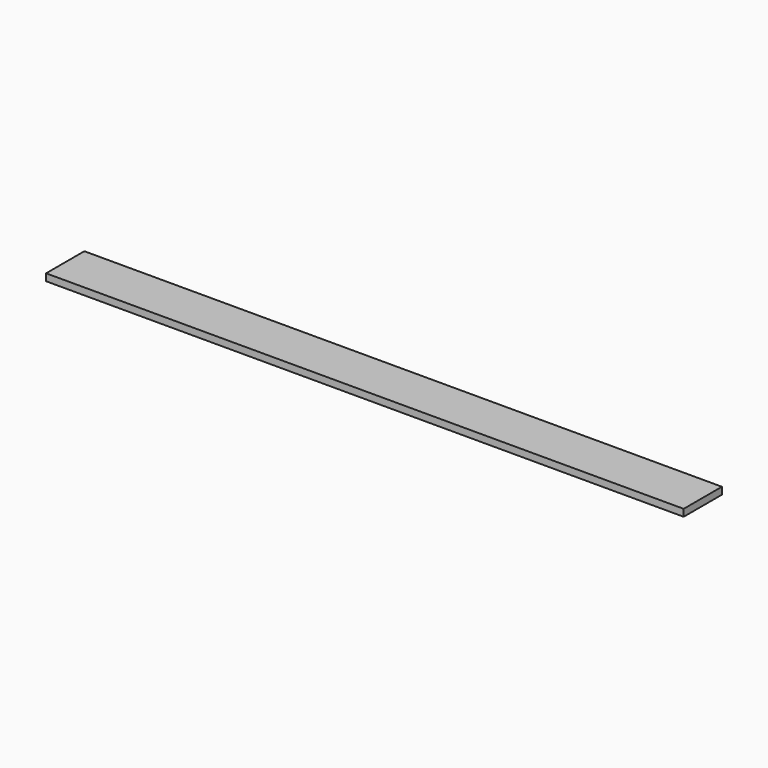
from build123d import *

# Parameters (mm, degrees)
F0_W     = 150
F0_H     = 2000
F1_DEPTH = 22
F2_ANGLE = 90


with BuildPart() as f1:
    # F0 (on Right) → F1 (new body)
    with BuildSketch(Plane.YZ):
        Rectangle(F0_W, F0_H)
    extrude(amount=F1_DEPTH)


with BuildPart() as f1_1:
    # F2: moved
    add(f1.part.rotate(Axis((0, 0, -1000), (0, -1, 0)), F2_ANGLE))


solid = f1_1.part
